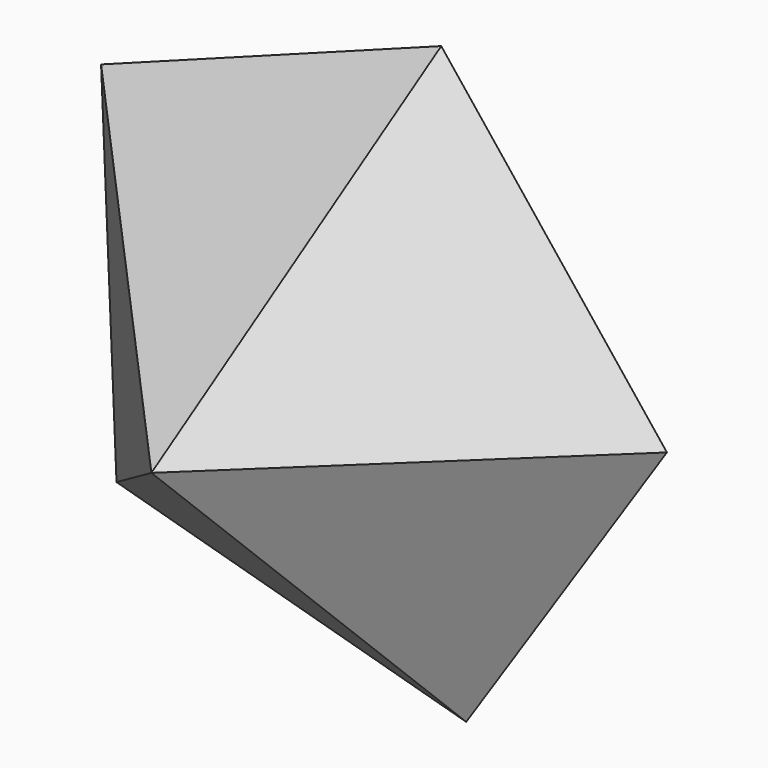
from build123d import *


with BuildPart() as f3:
    # F0 (on Front) → F3 section 0
    with BuildSketch(Plane.XZ, mode=Mode.PRIVATE) as f3_s0:
        Polygon((14.409586, 51.739203), (-44.754099, 29.692624), (-42.069141, -33.388152), (18.75394, -50.327637), (53.659713, 2.283962), align=None)
    loft([Vertex(0, -45, 0), f3_s0.sketch])


solid = f3.part
